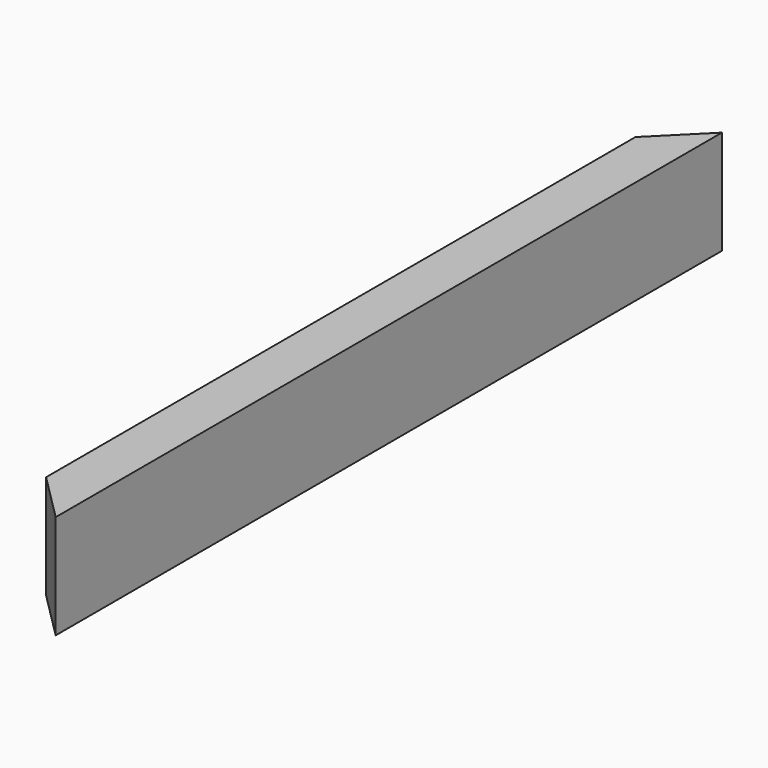
from build123d import *

# Parameters (mm, degrees)
F0_W     = 660.4
F0_H     = 82.55
F1_DEPTH = 19.05
F3_DEPTH = 82.55


with BuildPart() as f1:
    # F0 (on Right) → F1 (new body, symmetric)
    with BuildSketch(Plane.YZ):
        Rectangle(F0_W, F0_H)
    extrude(amount=F1_DEPTH, both=True)

    # F2 (on face) → F3 (cut, through all)
    with BuildSketch(Plane.XY.offset(41.275)):
        Polygon((-19.05, 330.2), (-19.05, 292.1), (19.05, 330.2), align=None)
        Polygon((-19.05, -330.2), (19.05, -330.2), (-19.05, -292.1), align=None)
    extrude(amount=-F3_DEPTH, mode=Mode.SUBTRACT)


solid = f1.part
